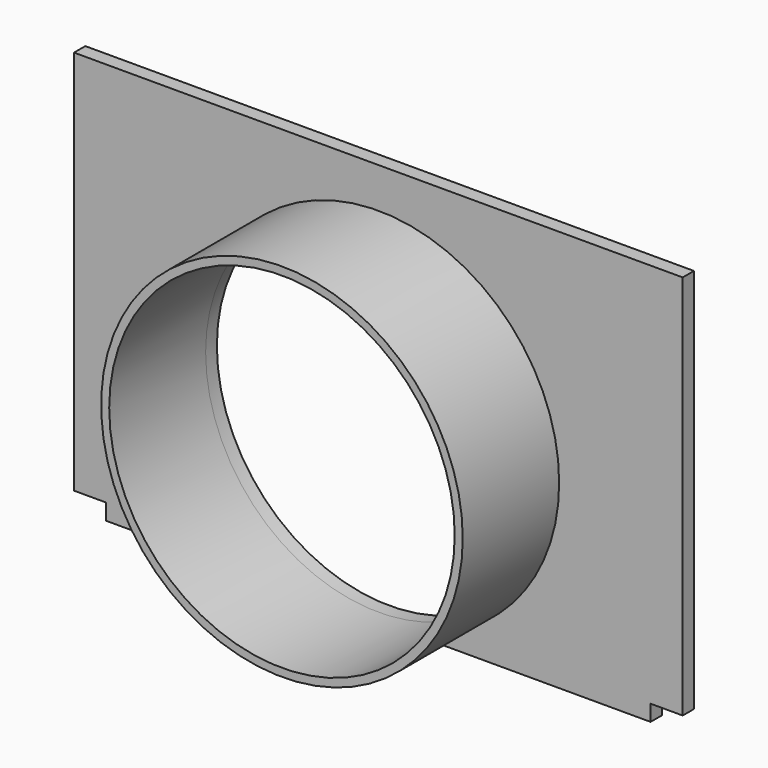
from build123d import *

# Parameters (mm, degrees)
F1_DEPTH = 1.75
F2_R     = 21.5
F3_DEPTH = 25
F4_R     = 21.5
F5_DEPTH = 15


with BuildPart() as f1:
    # F0 (on Front) → F1 (new body)
    with BuildSketch(Plane.XZ):
        Polygon((75.75, 0), (0, 0), (0, -48), (4, -48), (4, -50), (71.75, -50), (71.75, -48), (75.75, -48), align=None)
    extrude(amount=F1_DEPTH)

    # F2 (on face) → F3 (cut)
    with BuildSketch(Plane.XZ.offset(1.75)):
        with Locations((37.875, -27.5)):
            Circle(F2_R)
    extrude(amount=-F3_DEPTH, mode=Mode.SUBTRACT)

    # F4 (on face) → F5 (join)
    with BuildSketch(Plane.XZ.offset(1.75)):
        with BuildLine():
            ThreePointArc((37.875, -50), (53.7849025767, -43.4099025767), (60.375, -27.5))
            ThreePointArc((60.375, -27.5), (21.9650974233, -11.5900974233), (37.875, -50))
        make_face()
        with Locations((37.875, -27.5)):
            Circle(F4_R, mode=Mode.SUBTRACT)
    extrude(amount=F5_DEPTH)


solid = f1.part
